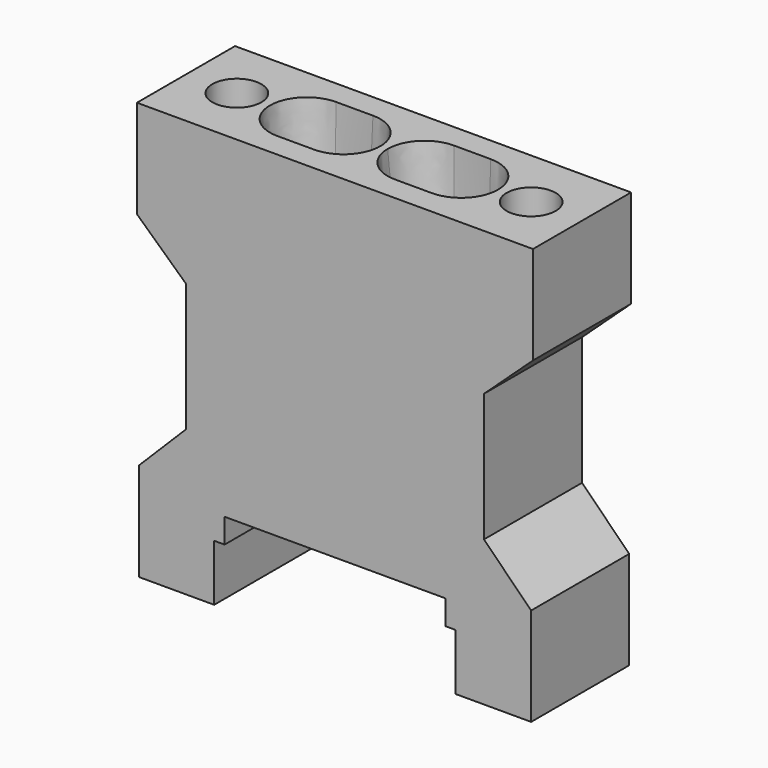
from build123d import *

# Parameters (mm, degrees)
SKETCH072_R     = 2.7
PAD031_DEPTH    = 10
SKETCH069_R     = 2.6
POCKET028_DEPTH = 8
SKETCH070_R     = 3
POCKET029_DEPTH = 1
SKETCH073_R     = 2
POCKET030_DEPTH = 8


with BuildPart() as loft004:
    # Sketch072 → Loft004 section 0
    with BuildSketch(Plane.XY.offset(18)):
        with Locations((-5, 0)):
            Circle(SKETCH072_R)
    # Sketch071 → Loft004 section 1
    with BuildSketch(Plane.XY.offset(38)):
        with BuildLine():
            ThreePointArc((-6.3, 3), (-9.3, 0), (-6.3, -3))
            Line((-6.3, -3), (-3.3, -3))
            ThreePointArc((-3.3, -3), (-0.3, 0), (-3.3, 3))
            Line((-3.3, 3), (-6.3, 3))
        make_face()
    loft()


with BuildPart() as part_mirroring004:
    # Part__Mirroring004: instance of Loft004
    add(loft004.part.mirror(Plane(origin=(0, 0, 0), x_dir=(0, -1, 0), z_dir=(1, 0, 0))))


with BuildPart() as fusion004:
    # Fusion004 base: copy of Loft004
    add(loft004.part)

    # Fusion004: union Part__Mirroring004
    add(part_mirroring004.part)


with BuildPart() as cut003:
    # Sketch068 → Pad031 (new body)
    with BuildSketch(Plane.XZ):
        Polygon((-16, 4), (-9.85, 4), (-9.85, 7), (-9.85, 8.6), (-9, 8.6), (-9, 10.6), (9, 10.6), (9, 8.6), (9.85, 8.6), (9.85, 7), (9.85, 4), (16, 4), (16, 12), (12.15, 15.85), (12.15, 26.306086), (16.15, 30), (16.15, 38), (-16.15, 38), (-16.15, 30), (-12.15, 26.306086), (-12.15, 15.85), (-16, 12), align=None)
    extrude(amount=PAD031_DEPTH)

    # Sketch069 (on Face7 of Pad031) → Pocket028 (cut)
    with BuildSketch(Plane(origin=(0, 0, 10.6), x_dir=(1, 0, 0), z_dir=(0, 0, -1))):
        with Locations((-5, 5)):
            Circle(SKETCH069_R)
        with Locations((5, 5)):
            Circle(SKETCH069_R)
    extrude(amount=-POCKET028_DEPTH, mode=Mode.SUBTRACT)

    # Sketch070 (on Face11 of Pocket028) → Pocket029 (cut)
    with BuildSketch(Plane(origin=(0, 0, 10.6), x_dir=(1, 0, 0), z_dir=(0, 0, -1))):
        with Locations((-5, 5)):
            Circle(SKETCH070_R)
        with Locations((5, 5)):
            Circle(SKETCH070_R)
    extrude(amount=-POCKET029_DEPTH, mode=Mode.SUBTRACT)

    # Sketch073 (on Face22 of Pocket029) → Pocket030 (cut)
    with BuildSketch(Plane(origin=(0, 0, 38), x_dir=(-1, 0, 0), z_dir=(0, 0, 1))):
        with Locations((-12, 5)):
            Circle(SKETCH073_R)
        with Locations((12, 5)):
            Circle(SKETCH073_R)
    extrude(amount=-POCKET030_DEPTH, mode=Mode.SUBTRACT)


with BuildPart() as cut003_1:
    # Body025 placement: moved
    add(cut003.part.moved(Location((0, 5, 0))))

    # Cut003: cut Fusion004
    add(fusion004.part, mode=Mode.SUBTRACT)


with BuildPart() as cut003_2:
    # Cut003 placement: moved
    add(cut003_1.part.moved(Location((0, -184.33, 0))))


solid = cut003_2.part
